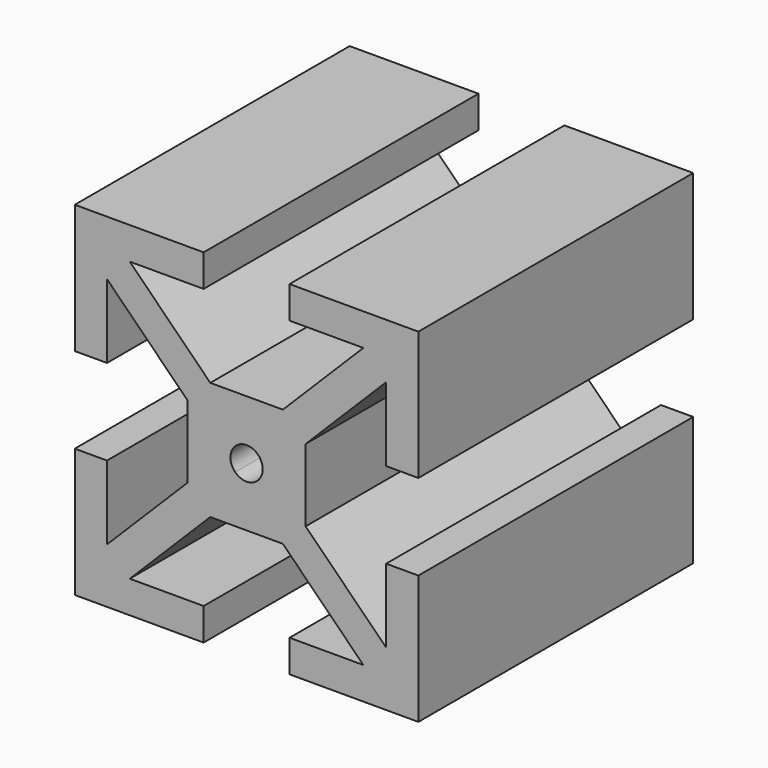
from build123d import *

# Parameters (mm, degrees)
F1_DEPTH = 25.4


with BuildPart() as f1:
    # F0 (on Front) → F1 (new body)
    with BuildSketch(Plane.XZ):
        Polygon((-3.175, 10.31875), (-3.175, 12.7), (-12.7, 12.7), (-12.7, 3.175), (-10.31875, 3.175), (-10.31875, 8.6349519773), (-10.31875, 10.31875), (-8.6349519773, 10.31875), align=None)
        Polygon((12.7, 3.175), (12.7, 12.7), (3.175, 12.7), (3.175, 10.31875), (8.6349519773, 10.31875), (10.31875, 10.31875), (10.31875, 8.6349519773), (10.31875, 3.175), align=None)
        Polygon((10.31875, 10.31875), (8.6349519773, 10.31875), (10.31875, 8.6349519773), align=None)
        Polygon((-10.31875, 8.6349519773), (-8.6349519773, 10.31875), (-10.31875, 10.31875), align=None)
        Polygon((-2.6818269773, 4.365625), (-8.6349519773, 10.31875), (-10.31875, 8.6349519773), (-4.365625, 2.6818269773), (-4.365625, 4.365625), align=None)
        Polygon((10.31875, 8.6349519773), (8.6349519773, 10.31875), (2.6818269773, 4.365625), (4.365625, 4.365625), (4.365625, 2.6818269773), align=None)
        Polygon((0, 1.6837980227), (2.6818269773, 4.365625), (-2.6818269773, 4.365625), align=None)
        Polygon((0, 1.6837980227), (-2.6818269773, 4.365625), (-4.365625, 4.365625), (-4.365625, 2.6818269773), (-1.6837980227, 0), (-0.8418990093, 0.8418990134), align=None)
        Polygon((-1.6837980227, 0), (-4.365625, 2.6818269773), (-4.365625, -2.6818269773), align=None)
        Polygon((-2.6818269773, -4.365625), (2.6818269773, -4.365625), (0, -1.6837980227), align=None)
        Polygon((4.365625, -2.6818269773), (4.365625, 2.6818269773), (1.6837980227, 0), align=None)
        Polygon((4.365625, 4.365625), (2.6818269773, 4.365625), (0, 1.6837980227), (0.8418990099, 0.8418990128), (1.6837980227, 0), (4.365625, 2.6818269773), align=None)
        Polygon((4.365625, -4.365625), (4.365625, -2.6818269773), (1.6837980227, 0), (0.8418990098, -0.8418990129), (0, -1.6837980227), (2.6818269773, -4.365625), align=None)
        Polygon((-0.8418990134, -0.8418990093), (-1.6837980227, 0), (-4.365625, -2.6818269773), (-4.365625, -4.365625), (-2.6818269773, -4.365625), (0, -1.6837980227), align=None)
        Polygon((-4.365625, -2.6818269773), (-10.31875, -8.6349519773), (-8.6349519773, -10.31875), (-2.6818269773, -4.365625), (-4.365625, -4.365625), align=None)
        Polygon((8.6349519773, -10.31875), (10.31875, -8.6349519773), (4.365625, -2.6818269773), (4.365625, -4.365625), (2.6818269773, -4.365625), align=None)
        Polygon((12.7, -12.7), (12.7, -3.175), (10.31875, -3.175), (10.31875, -8.6349519773), (10.31875, -10.31875), (8.6349519773, -10.31875), (3.175, -10.31875), (3.175, -12.7), align=None)
        Polygon((-10.31875, -3.175), (-12.7, -3.175), (-12.7, -12.7), (-3.175, -12.7), (-3.175, -10.31875), (-8.6349519773, -10.31875), (-10.31875, -10.31875), (-10.31875, -8.6349519773), align=None)
        Polygon((10.31875, -10.31875), (10.31875, -8.6349519773), (8.6349519773, -10.31875), align=None)
        Polygon((-8.6349519773, -10.31875), (-10.31875, -8.6349519773), (-10.31875, -10.31875), align=None)
        with BuildLine():
            Line((0.8418990098, -0.8418990129), (1.6837980227, 0))
            Line((1.6837980227, 0), (0.8418990099, 0.8418990128))
            ThreePointArc((0.8418990099, 0.8418990128), (1.099994068, 0.4556324626), (1.190625, 0))
            ThreePointArc((1.190625, 0), (1.099994068, -0.4556324627), (0.8418990098, -0.8418990129))
        make_face()
        with BuildLine():
            Line((0, -1.6837980227), (0.8418990098, -0.8418990129))
            ThreePointArc((0.8418990098, -0.8418990129), (-2.5e-09, -1.190625), (-0.8418990134, -0.8418990093))
            Line((-0.8418990134, -0.8418990093), (0, -1.6837980227))
        make_face()
        with BuildLine():
            ThreePointArc((-0.8418990134, -0.8418990093), (-1.190625, 2.8e-09), (-0.8418990093, 0.8418990134))
            Line((-0.8418990093, 0.8418990134), (-1.6837980227, 0))
            Line((-1.6837980227, 0), (-0.8418990134, -0.8418990093))
        make_face()
        with BuildLine():
            Line((0.8418990099, 0.8418990128), (0, 1.6837980227))
            Line((0, 1.6837980227), (-0.8418990093, 0.8418990134))
            ThreePointArc((-0.8418990093, 0.8418990134), (4e-10, 1.190625), (0.8418990099, 0.8418990128))
        make_face()
    extrude(amount=F1_DEPTH)


solid = f1.part
